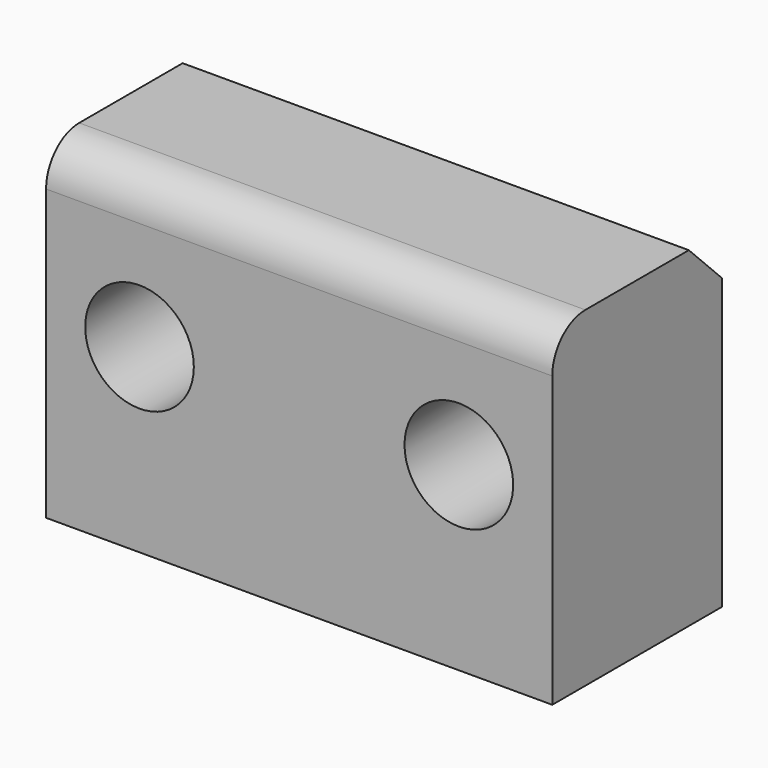
from build123d import *

# Parameters (mm, degrees)
F0_W     = 30.5993435904
F0_H     = 25.6396476179
F1_DEPTH = 40
F2_R     = 6.5677441637
F3_DEPTH = 25.6406476179
F4_R     = 5
F5_SIZE  = 5
F6_T     = -2.5


with BuildPart() as f1:
    # F0 (on Top) → F1 (new body)
    with BuildSketch(Plane.XY):
        with Locations((-1.0232594796, 2.7313483879)):
            Rectangle(F0_W, F0_H)
    extrude(amount=F1_DEPTH)

    # F2 (on face) → F3 (cut, through all)
    with BuildSketch(Plane.XZ.offset(10.0884754211)):
        with Locations((-5.0276978873, 21.8645650893)):
            Circle(F2_R)
    extrude(amount=-F3_DEPTH, mode=Mode.SUBTRACT)

    # F4
    f4_edges = [f1.edges().sort_by_distance(p)[0] for p in [
        (-1.023259, -10.088475, 40),
    ]]
    fillet(f4_edges, radius=F4_R)

    # F5
    f5_edges = [f1.edges().sort_by_distance(p)[0] for p in [
        (-1.023259, 15.551172, 40),
    ]]
    chamfer(f5_edges, length=F5_SIZE)

    # F6
    f6_openings = [f1.faces().sort_by_distance(p)[0] for p in [
        (-1.023259, 2.731348, 0),
        (14.276412, 2.655308, 19.672056),
    ]]
    offset(amount=F6_T, openings=f6_openings)

    # F7: F1 across face


with BuildPart() as f1_1:
    add(f1.part)
    add(f1.part.mirror(Plane(origin=(14.2764123157, 2.5963156979, 23.1564866068), x_dir=(0, 1, 0), z_dir=(1, 0, 0))))


solid = f1_1.part
